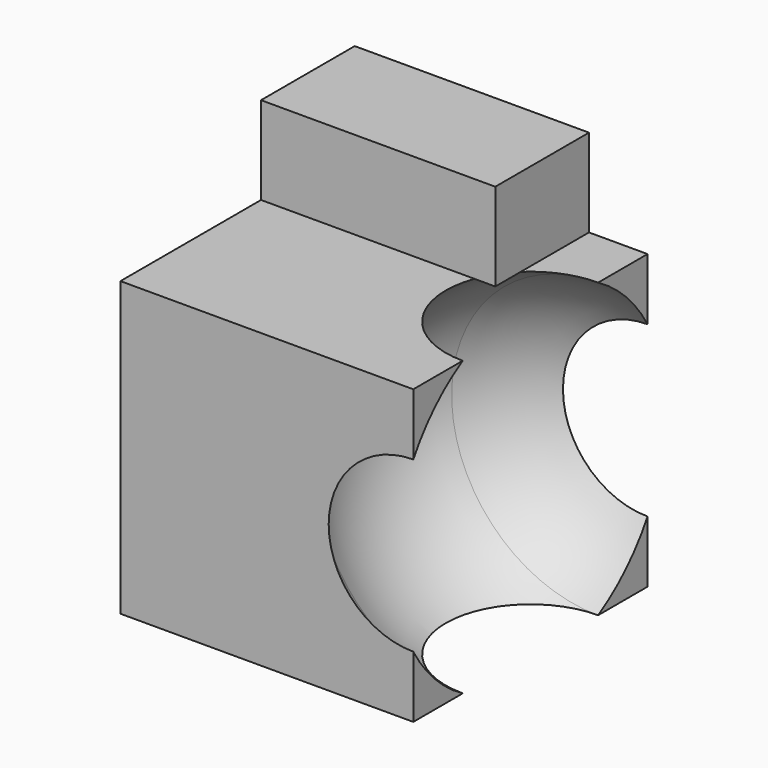
from build123d import *

# Parameters (mm, degrees)
F0_W     = 254
F0_H     = 254
F1_DEPTH = 254
F4_T     = -25.4
F7_W     = 101.6
F7_H     = 76.2
F5_DEPTH = 203.2


with BuildPart() as f1:
    # F0 (on Right) → F1 (new body)
    with BuildSketch(Plane.YZ):
        with Locations((-127, -127)):
            Rectangle(F0_W, F0_H)
    extrude(amount=F1_DEPTH)

    # F2 (on face) → F3 (revolve, cut)
    with BuildSketch(Plane.YZ.offset(254)):
        with BuildLine():
            Line((-200.374284178, 0), (-53.625715822, 0))
            ThreePointArc((-53.625715822, 0), (-127, 19.6723749676), (-200.374284178, 0))
        make_face()
        with BuildLine():
            Line((0, -127), (0, -53.625715822))
            ThreePointArc((0, -53.625715822), (-23.2869690477, -23.2869690477), (-53.625715822, 0))
            Line((-53.625715822, 0), (-200.374284178, 0))
            ThreePointArc((-200.374284178, 0), (-230.7130309523, -23.2869690477), (-254, -53.625715822))
            Line((-254, -53.625715822), (-254, -127))
            Line((-254, -127), (0, -127))
        make_face()
        with BuildLine():
            Line((0, -127), (19.6723749676, -127))
            ThreePointArc((19.6723749676, -127), (14.6689401378, -89.0171488843), (0, -53.625715822))
            Line((0, -53.625715822), (0, -127))
        make_face()
        with BuildLine():
            Line((-273.6723749676, -127), (-254, -127))
            Line((-254, -127), (-254, -53.625715822))
            ThreePointArc((-254, -53.625715822), (-268.6689401378, -89.0171488843), (-273.6723749676, -127))
        make_face()
    revolve(axis=Axis((254, -127, -127), (0, -1, 0)), mode=Mode.SUBTRACT)

    # F4
    f4_openings = [f1.faces().sort_by_distance(p)[0] for p in [
        (0, -127, -127),
    ]]
    offset(amount=F4_T, openings=f4_openings)

    # F7 (on Right) → F5 (join)
    with BuildSketch(Plane.YZ):
        with Locations((-50.8, 38.1)):
            Rectangle(F7_W, F7_H)
    extrude(amount=F5_DEPTH)


solid = f1.part
